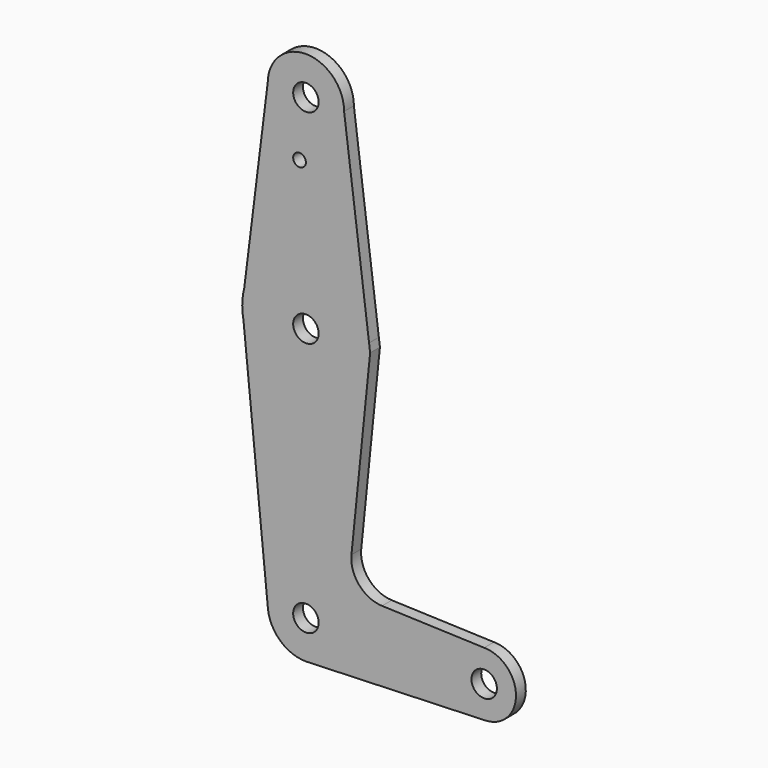
from build123d import *

# Parameters (mm, degrees)
F0_R     = 3.175
F0_R_2   = 1.5875
F1_DEPTH = 3.048


with BuildPart() as f1:
    # F0 (on Front) → F1 (new body)
    with BuildSketch(Plane.XZ):
        with BuildLine():
            ThreePointArc((0.6773435479, -34.3000976949), (6.9705567315, -31.2905109972), (9.525, -24.7992119089))
            ThreePointArc((9.525, -24.7992119089), (-0.4715018994, -15.2858890951), (-9.4783198864, -25.7410596309))
            ThreePointArc((-9.4783198864, -25.7410596309), (-6.3935328829, -31.8595491725), (0, -34.3242119089))
            Line((0, -34.3242119089), (0.6773435479, -34.3000976949))
        make_face()
        with Locations((0, -24.7992119089)):
            Circle(F0_R, mode=Mode.SUBTRACT)
        with BuildLine():
            ThreePointArc((-9.4783198864, -25.7410596309), (-0.4715018994, -15.2858890951), (9.525, -24.7992119089))
            Line((9.525, -24.7992119089), (36.5125, -24.7992119089))
            ThreePointArc((36.5125, -24.7992119089), (38.8373399243, -19.1865518332), (44.45, -16.8617119089))
            Line((44.45, -16.8617119089), (18.9857594382, -15.952274746))
            ThreePointArc((18.9857594382, -15.952274746), (13.2766428187, -13.2312355212), (11.3599586652, -7.2042637365))
            Line((11.3599586652, -7.2042637365), (16.0125260333, 38.630609635))
            Line((16.0125260333, 38.630609635), (15.7474568899, 40.7090775379))
            ThreePointArc((15.7474568899, 40.7090775379), (15.8430821358, 39.7069557892), (15.875, 38.7007880911))
            ThreePointArc((15.875, 38.7007880911), (1.5348250206, 22.900157181), (-15.5782204291, 35.6455183385))
            Line((-15.5782204291, 35.6455183385), (-9.4783198864, -25.7410596309))
        make_face()
        with BuildLine():
            Line((36.5125, -24.7992119089), (9.525, -24.7992119089))
            ThreePointArc((9.525, -24.7992119089), (6.9705567315, -31.2905109972), (0.6773435479, -34.3000976949))
            Line((0.6773435479, -34.3000976949), (44.7324052746, -32.7316865235))
            ThreePointArc((44.7324052746, -32.7316865235), (38.9380895153, -30.5108446928), (36.5125, -24.7992119089))
        make_face()
        with BuildLine():
            ThreePointArc((44.45, -16.8617119089), (38.8373399243, -19.1865518332), (36.5125, -24.7992119089))
            ThreePointArc((36.5125, -24.7992119089), (38.9380895153, -30.5108446928), (44.7324052746, -32.7316865235))
            ThreePointArc((44.7324052746, -32.7316865235), (50.1616327839, -30.3111223936), (52.3875, -24.7992119089))
            ThreePointArc((52.3875, -24.7992119089), (50.0626600757, -19.1865518332), (44.45, -16.8617119089))
        make_face()
        with BuildLine():
            ThreePointArc((47.625, -24.7992119089), (44.45, -27.9742119089), (41.275, -24.7992119089))
            ThreePointArc((41.275, -24.7992119089), (44.45, -21.6242119089), (47.625, -24.7992119089))
        make_face(mode=Mode.SUBTRACT)
        with BuildLine():
            ThreePointArc((0, -34.3242119089), (0.3388863295, -34.3181814464), (0.6773435479, -34.3000976949))
            Line((0.6773435479, -34.3000976949), (0, -34.3242119089))
        make_face()
        with BuildLine():
            Line((-15.8748448806, 38.630609635), (-15.5782204291, 35.6455183385))
            ThreePointArc((-15.5782204291, 35.6455183385), (1.5348250206, 22.900157181), (15.875, 38.7007880911))
            ThreePointArc((15.875, 38.7007880911), (15.8430821358, 39.7069557892), (15.7474568899, 40.7090775379))
            ThreePointArc((15.7474568899, 40.7090775379), (0.9940014281, 54.5446381964), (-15.3729779883, 42.6614916612))
            Line((-15.3729779883, 42.6614916612), (-15.8748448806, 38.630609635))
        make_face()
        with Locations((0, 38.7007880911)):
            Circle(F0_R, mode=Mode.SUBTRACT)
        with BuildLine():
            ThreePointArc((-15.8748448806, 38.630609635), (-15.7971998106, 37.1310418878), (-15.5782204291, 35.6455183385))
            Line((-15.5782204291, 35.6455183385), (-15.8748448806, 38.630609635))
        make_face()
        with BuildLine():
            ThreePointArc((-15.3729779883, 42.6614916612), (-15.7533682427, 40.6621687298), (-15.8748448806, 38.630609635))
            Line((-15.8748448806, 38.630609635), (-15.3729779883, 42.6614916612))
        make_face()
        with BuildLine():
            Line((-9.5239940625, 89.6392153162), (-15.3729779883, 42.6614916612))
            ThreePointArc((-15.3729779883, 42.6614916612), (0.9940014281, 54.5446381964), (15.7474568899, 40.7090775379))
            Line((15.7474568899, 40.7090775379), (9.525, 89.5007880911))
            ThreePointArc((9.525, 89.5007880911), (-0.0692154401, 79.9760395788), (-9.5239940625, 89.6392153162))
        make_face()
        with Locations((-1.5875, 75.2259880911)):
            Circle(F0_R_2, mode=Mode.SUBTRACT)
        with BuildLine():
            ThreePointArc((9.525, 89.5007880911), (0.0692154401, 99.0255366034), (-9.5239940625, 89.6392153162))
            ThreePointArc((-9.5239940625, 89.6392153162), (-0.0692154401, 79.9760395788), (9.525, 89.5007880911))
        make_face()
        with Locations((0, 89.5007880911)):
            Circle(F0_R, mode=Mode.SUBTRACT)
    extrude(amount=F1_DEPTH)


solid = f1.part
